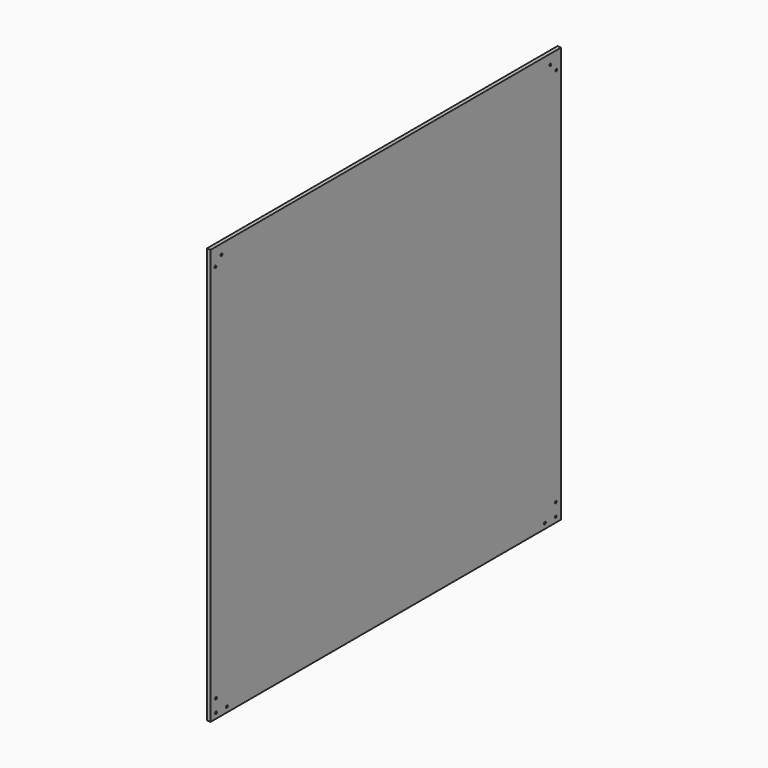
from build123d import *

# Parameters (mm, degrees)
F0_W     = 580
F0_H     = 550
F0_R     = 1.5
F1_DEPTH = 2.5


with BuildPart() as f1:
    # F0 (on Right) → F1 (new body, symmetric)
    with BuildSketch(Plane.YZ):
        Rectangle(F0_W, F0_H)
        with Locations((-281, -268)):
            Circle(F0_R, mode=Mode.SUBTRACT)
        with Locations((-263.000032, -268.034078)):
            Circle(F0_R, mode=Mode.SUBTRACT)
        with Locations((-281, -251)):
            Circle(F0_R, mode=Mode.SUBTRACT)
        with Locations((263.000032, -268.034078)):
            Circle(F0_R, mode=Mode.SUBTRACT)
        with Locations((281, -268)):
            Circle(F0_R, mode=Mode.SUBTRACT)
        with Locations((281, -251)):
            Circle(F0_R, mode=Mode.SUBTRACT)
        with Locations((-282, 252)):
            Circle(F0_R, mode=Mode.SUBTRACT)
        with Locations((-272, 262)):
            Circle(F0_R, mode=Mode.SUBTRACT)
        with Locations((282, 252)):
            Circle(F0_R, mode=Mode.SUBTRACT)
        with Locations((272, 262)):
            Circle(F0_R, mode=Mode.SUBTRACT)
    extrude(amount=F1_DEPTH, both=True)


solid = f1.part
